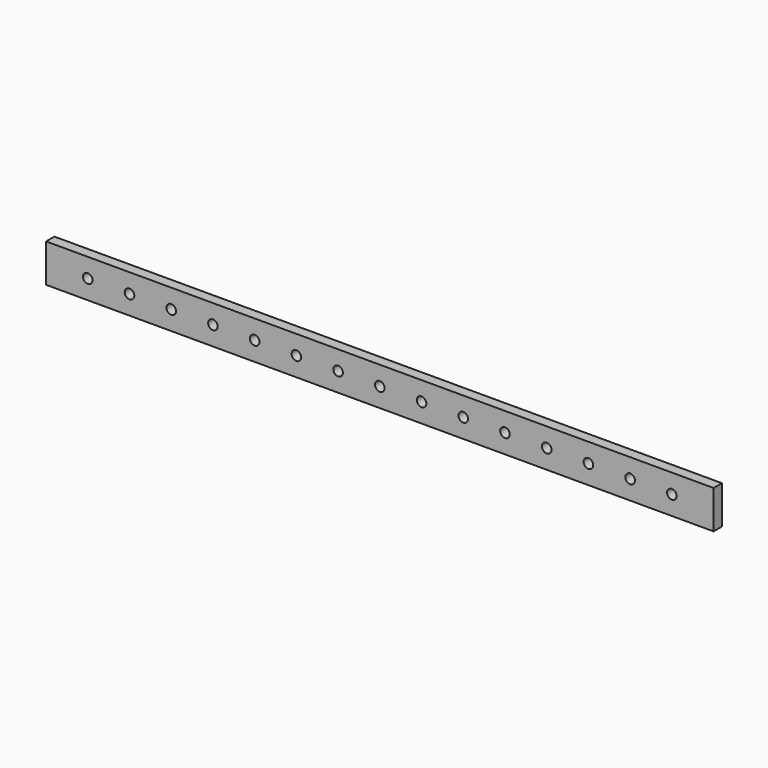
from build123d import *

# Parameters (mm, degrees)
F0_W     = 2438.4
F0_H     = 139.7
F0_R     = 17.4625
F1_DEPTH = 38.1


with BuildPart() as f1:
    # F0 (on Front) → F1 (new body)
    with BuildSketch(Plane.XZ):
        with Locations((1219.2, 69.85)):
            Rectangle(F0_W, F0_H)
        with Locations((152.4, 69.85)):
            Circle(F0_R, mode=Mode.SUBTRACT)
        with Locations((304.8, 69.85)):
            Circle(F0_R, mode=Mode.SUBTRACT)
        with Locations((457.2, 69.85)):
            Circle(F0_R, mode=Mode.SUBTRACT)
        with Locations((609.6, 69.85)):
            Circle(F0_R, mode=Mode.SUBTRACT)
        with Locations((762, 69.85)):
            Circle(F0_R, mode=Mode.SUBTRACT)
        with Locations((914.4, 69.85)):
            Circle(F0_R, mode=Mode.SUBTRACT)
        with Locations((1066.8, 69.85)):
            Circle(F0_R, mode=Mode.SUBTRACT)
        with Locations((1219.2, 69.85)):
            Circle(F0_R, mode=Mode.SUBTRACT)
        with Locations((1371.6, 69.85)):
            Circle(F0_R, mode=Mode.SUBTRACT)
        with Locations((1524, 69.85)):
            Circle(F0_R, mode=Mode.SUBTRACT)
        with Locations((1676.4, 69.85)):
            Circle(F0_R, mode=Mode.SUBTRACT)
        with Locations((1828.8, 69.85)):
            Circle(F0_R, mode=Mode.SUBTRACT)
        with Locations((1981.2, 69.85)):
            Circle(F0_R, mode=Mode.SUBTRACT)
        with Locations((2133.6, 69.85)):
            Circle(F0_R, mode=Mode.SUBTRACT)
        with Locations((2286, 69.85)):
            Circle(F0_R, mode=Mode.SUBTRACT)
    extrude(amount=F1_DEPTH)


solid = f1.part
